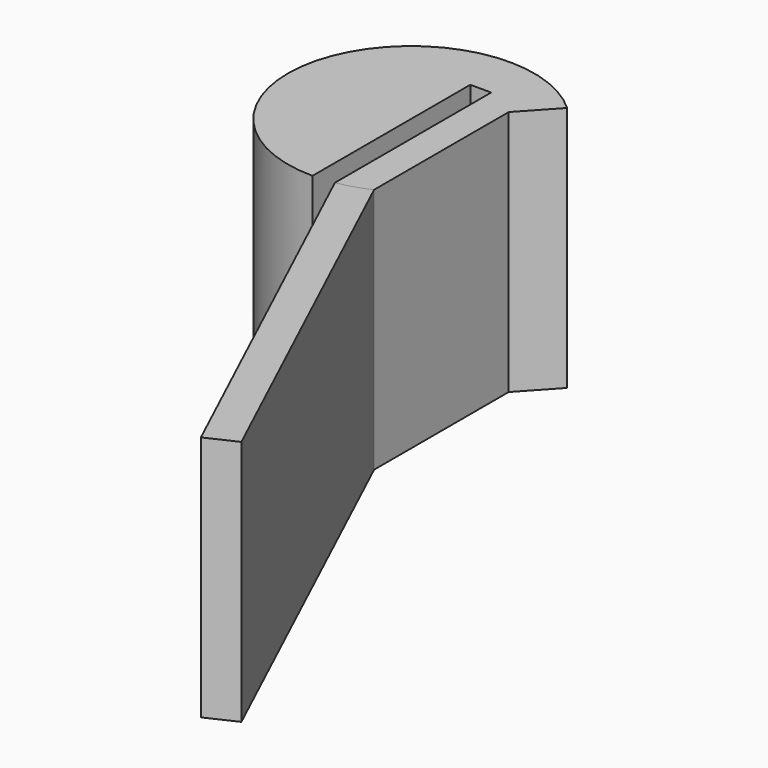
from build123d import *

# Parameters (mm, degrees)
F1_DEPTH = 20
F2_DEPTH = 20


with BuildPart() as f1:
    # F0 (on Top) → F1 (new body)
    with BuildSketch(Plane.XY):
        with BuildLine():
            Line((19.291597, -41.332396), (4.240949, -9.056177))
            ThreePointArc((4.240949, -9.056177), (2.99717, -9.540282), (1.7, -9.854441))
            Line((1.7, -9.854441), (16.898725, -42.448211))
            Line((16.898725, -42.448211), (19.291597, -41.332396))
        make_face()
    extrude(amount=F1_DEPTH)


with BuildPart() as f2:
    # F0 (on Top) → F2 (new body)
    with BuildSketch(Plane.XY):
        with BuildLine():
            Line((4.240949, 4.595494), (6.781898, 7.348868))
            ThreePointArc((6.781898, 7.348868), (-9.313664, 3.640833), (0, -10))
            Line((0, -10), (0, 6))
            Line((0, 6), (1.7, 6))
            Line((1.7, 6), (1.7, -9.854441))
            ThreePointArc((1.7, -9.854441), (2.99717, -9.540282), (4.240949, -9.056177))
            Line((4.240949, -9.056177), (4.240949, 4.595494))
        make_face()
    extrude(amount=F2_DEPTH)


solid = Compound([f1.part, f2.part])
